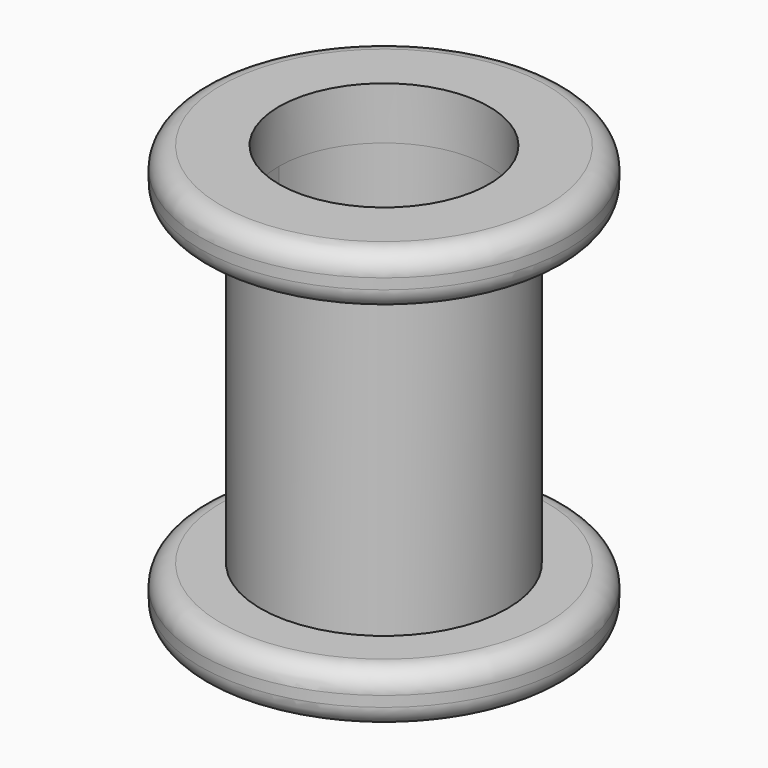
from build123d import *

# Parameters (mm, degrees)
F0_R     = 29.845
F0_R_2   = 25.4
F1_DEPTH = 50.8
F2_R     = 44.45
F3_DEPTH = 12.7
F4_R     = 5.08
F6_D     = 50.8
F7_R     = 44.45
F8_DEPTH = 12.7
F9_R     = 5.08
F11_D    = 50.8


with BuildPart() as f1:
    # F0 (on Top) → F1 (new body, symmetric)
    with BuildSketch(Plane.XY):
        Circle(F0_R)
        Circle(F0_R_2, mode=Mode.SUBTRACT)
    extrude(amount=F1_DEPTH, both=True)

    # F2 (on face) → F3 (join)
    with BuildSketch(Plane(origin=(0, 0, -50.8), x_dir=(1, 0, 0), z_dir=(0, 0, -1))):
        Circle(F2_R)
    extrude(amount=-F3_DEPTH)

    # F4
    f4_edges = [f1.edges().sort_by_distance(p)[0] for p in [
        (44.45, 0, -44.45),
        (-44.45, 0, -50.8),
        (-44.45, 0, -38.1),
    ]]
    fillet(f4_edges, radius=F4_R)

    # F6 (through all)
    with Locations(Plane(origin=(0, 0, -50.8), x_dir=(1, 0, 0), z_dir=(0, 0, -1))):
        with Locations((0, 0)):
            Hole(F6_D / 2)

    # F7 (on face) → F8 (join)
    with BuildSketch(Plane.XY.offset(50.8)):
        Circle(F7_R)
    extrude(amount=-F8_DEPTH)

    # F9
    f9_edges = [f1.edges().sort_by_distance(p)[0] for p in [
        (44.45, 0, 44.45),
        (-44.45, 0, 50.8),
        (-44.45, 0, 38.1),
    ]]
    fillet(f9_edges, radius=F9_R)

    # F11 (through all)
    with Locations(Plane.XY.offset(50.8)):
        with Locations((0, 0)):
            Hole(F11_D / 2)


solid = f1.part
